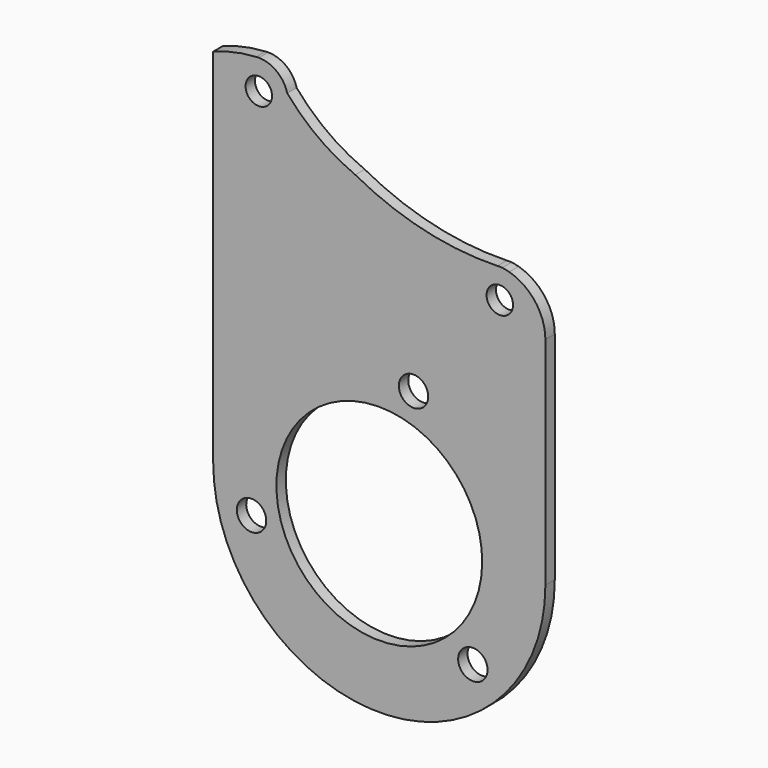
from build123d import *

# Parameters (mm, degrees)
F0_R     = 56.5
F0_R_2   = 5
F0_R_3   = 35
F1_DEPTH = 4
F2_ANGLE = -15
F3_R     = 4.5
F4_DEPTH = 4


with BuildPart() as f1:
    # F0 (on Front) → F1 (new body)
    with BuildSketch(Plane.XZ):
        Circle(F0_R)
        with Locations((-38.971143, -22.5)):
            Circle(F0_R_2, mode=Mode.SUBTRACT)
        with Locations((38.971143, -22.5)):
            Circle(F0_R_2, mode=Mode.SUBTRACT)
        Circle(F0_R_3, mode=Mode.SUBTRACT)
        with Locations((0, 45)):
            Circle(F0_R_2, mode=Mode.SUBTRACT)
    extrude(amount=F1_DEPTH)


with BuildPart() as f1_1:
    # F2: moved
    add(f1.part.rotate(Axis((0, -4, 0), (0, -1, 0)), F2_ANGLE))

    # F3 (on face) → F4 (join)
    with BuildSketch(Plane.XZ.offset(4)):
        with BuildLine():
            Line((-56.5, 123), (-56.5, 0))
            ThreePointArc((-56.5, 0), (0, 56.5), (56.5, 0))
            Line((56.5, 0), (56.5, 73.5))
            ThreePointArc((56.5, 73.5), (53.068627, 83.710308), (44.167387, 89.776001))
            ThreePointArc((44.167387, 89.776001), (49.10698, 86.134844), (50.98986, 80.294265))
            ThreePointArc((50.98986, 80.294265), (34.214658, 72.939223), (40.17053, 90.260643))
            ThreePointArc((40.17053, 90.260643), (15.244627, 92.860772), (-8.158831, 101.824001))
            ThreePointArc((-8.158831, 101.824001), (-20.738354, 108.890352), (-31.308753, 118.710962))
            ThreePointArc((-31.308753, 118.710962), (-31.069903, 117.468456), (-30.98986, 116.205735))
            ThreePointArc((-30.98986, 116.205735), (-47.743504, 108.830893), (-41.867518, 126.167146))
            ThreePointArc((-41.867518, 126.167146), (-49.310618, 125.169671), (-56.5, 123))
        make_face()
        with BuildLine():
            ThreePointArc((-40.98986, 126.205735), (-41.428779, 126.18849), (-41.867518, 126.167146))
            ThreePointArc((-41.867518, 126.167146), (-47.743504, 108.830893), (-30.98986, 116.205735))
            ThreePointArc((-30.98986, 116.205735), (-31.069903, 117.468456), (-31.308753, 118.710962))
            ThreePointArc((-31.308753, 118.710962), (-34.86827, 124.113082), (-40.98986, 126.205735))
        make_face()
        with Locations((-40.98986, 116.205735)):
            Circle(F3_R, mode=Mode.SUBTRACT)
        with BuildLine():
            ThreePointArc((50.98986, 80.294265), (49.10698, 86.134844), (44.167387, 89.776001))
            ThreePointArc((44.167387, 89.776001), (42.996926, 90.060352), (41.809189, 90.260643))
            ThreePointArc((41.809189, 90.260643), (40.98986, 90.294265), (40.17053, 90.260643))
            ThreePointArc((40.17053, 90.260643), (34.214658, 72.939223), (50.98986, 80.294265))
        make_face()
        with Locations((40.98986, 80.294265)):
            Circle(F3_R, mode=Mode.SUBTRACT)
    extrude(amount=-F4_DEPTH)


solid = f1_1.part
